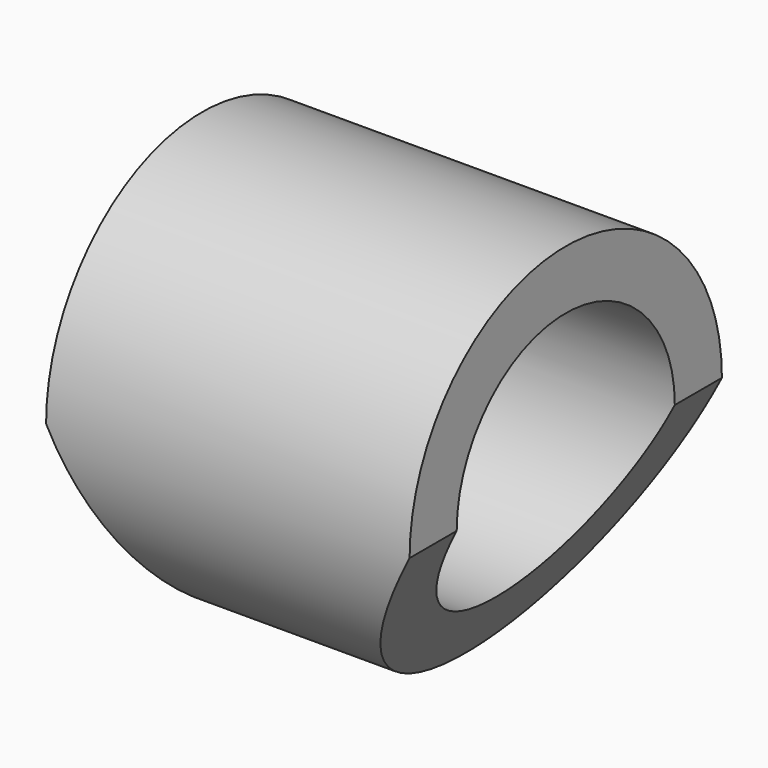
from build123d import *

# Parameters (mm, degrees)
F0_R     = 13.6398
F0_R_2   = 9.525
F1_DEPTH = 12.7
F3_DEPTH = 15.748


with BuildPart() as f1:
    # F0 (on Right) → F1 (new body, symmetric)
    with BuildSketch(Plane.YZ):
        Circle(F0_R)
        Circle(F0_R_2, mode=Mode.SUBTRACT)
    extrude(amount=F1_DEPTH, both=True)

    # F2 (on Front) → F3 (cut, symmetric)
    with BuildSketch(Plane.XZ):
        Polygon((0, -24.799636), (-12.7, 0), (-20.097874, -37.90176), (37.946441, -37.658389), (12.7, 0), align=None)
    extrude(amount=F3_DEPTH, both=True, mode=Mode.SUBTRACT)


solid = f1.part
